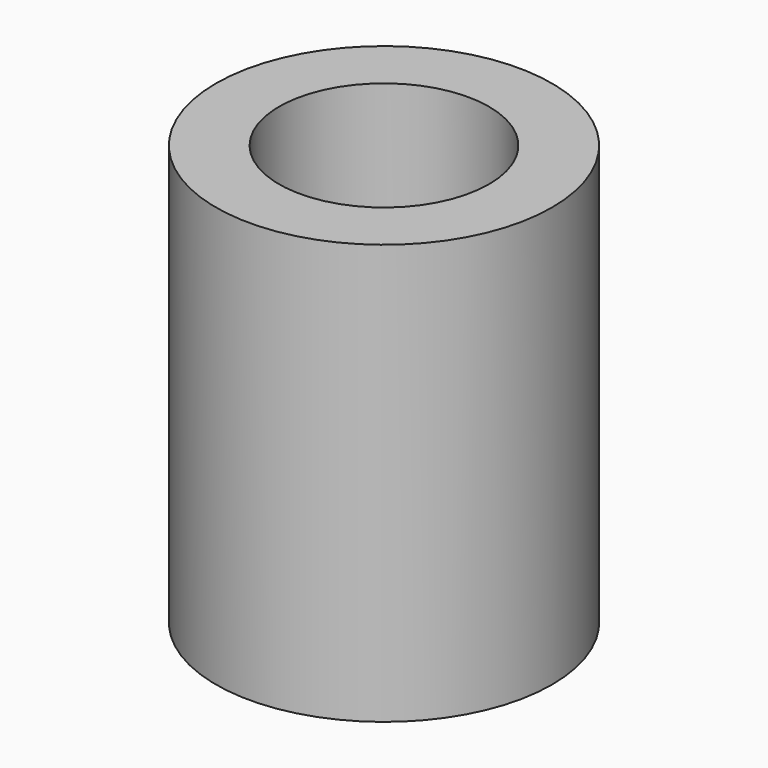
from build123d import *

# Parameters (mm, degrees)
SKETCH_R     = 20
PAD_DEPTH    = 50
SKETCH001_R  = 12.5
POCKET_DEPTH = 50.001


with BuildPart() as part:
    # Sketch → Pad (new body)
    with BuildSketch(Plane.XY):
        Circle(SKETCH_R)
    extrude(amount=PAD_DEPTH)

    # Sketch001 (on Face3 of Pad) → Pocket (cut, through all)
    with BuildSketch(Plane.XY.offset(50)):
        Circle(SKETCH001_R)
    extrude(amount=-POCKET_DEPTH, mode=Mode.SUBTRACT)


solid = part.part
